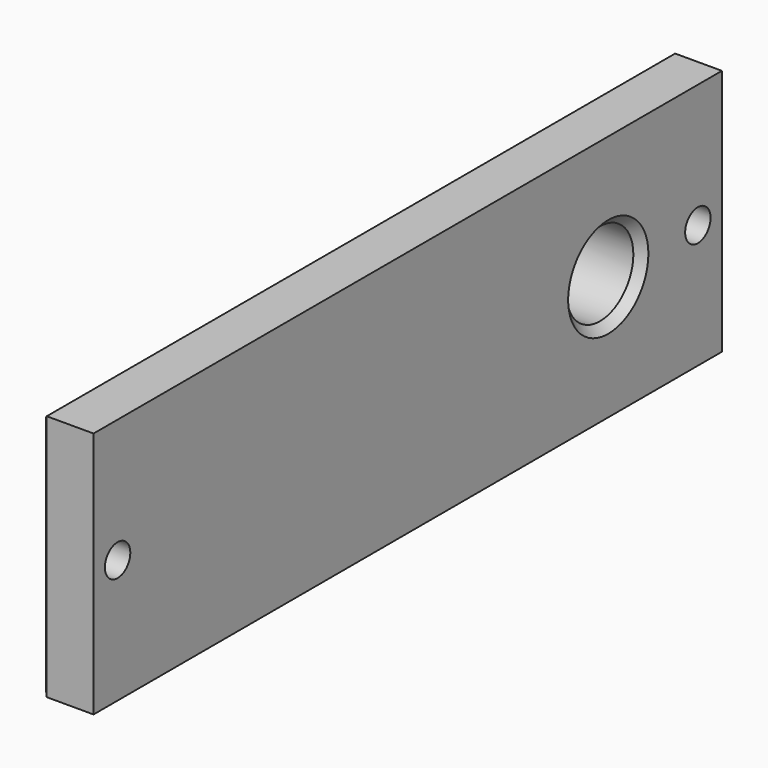
from build123d import *

# Parameters (mm, degrees)
SKETCH013_W     = 47
SKETCH013_H     = 14.8
PAD005_DEPTH    = 3
SKETCH014_R     = 0.95
POCKET003_DEPTH = 5
SKETCH015_R     = 0.95
POCKET004_DEPTH = 2
SKETCH016_W     = 40
SKETCH016_H     = 12.6
PAD006_DEPTH    = 1.5
SKETCH017_R     = 2.5
POCKET005_DEPTH = 10
CHAMFER014_SIZE = 0.5
CHAMFER015_SIZE = 0.5
CHAMFER016_SIZE = 0.2


with BuildPart() as part:
    # Sketch013 → Pad005 (new body)
    with BuildSketch(Plane.YZ):
        with Locations((0, 4.5)):
            Rectangle(SKETCH013_W, SKETCH013_H)
    extrude(amount=PAD005_DEPTH)

    # Sketch014 → Pocket003 (cut)
    with BuildSketch(Plane.YZ):
        with Locations((-21.7, 4.5)):
            Circle(SKETCH014_R)
        with Locations((21.7, 4.5)):
            Circle(SKETCH014_R)
    extrude(amount=POCKET003_DEPTH, mode=Mode.SUBTRACT)

    # Sketch015 → Pocket004 (cut)
    with BuildSketch(Plane.YZ.offset(3)):
        with Locations((-21.7, 4.5)):
            Circle(SKETCH015_R)
        with Locations((21.7, 4.5)):
            Circle(SKETCH015_R)
    extrude(amount=-POCKET004_DEPTH, mode=Mode.SUBTRACT)

    # Sketch016 → Pad006 (join)
    with BuildSketch(Plane.YZ):
        with Locations((0, 4.5)):
            Rectangle(SKETCH016_W, SKETCH016_H)
    extrude(amount=-PAD006_DEPTH)

    # Sketch017 → Pocket005 (cut)
    with BuildSketch(Plane(origin=(3, 15, 4.5), x_dir=(0, 1, 0), z_dir=(1, 0, 0))):
        Circle(SKETCH017_R)
    extrude(amount=-POCKET005_DEPTH, mode=Mode.SUBTRACT)

    # Chamfer014
    chamfer014_edges = [part.edges().sort_by_distance(p)[0] for p in [
        (-1.5, 12.5, 4.5),
        (3, 12.5, 4.5),
    ]]
    chamfer(chamfer014_edges, length=CHAMFER014_SIZE)

    # Chamfer015
    chamfer015_edges = [part.edges().sort_by_distance(p)[0] for p in [
        (-1.5, 20, 4.5),
        (-1.5, 0, -1.8),
        (-1.5, -20, 4.5),
        (-1.5, 0, 10.8),
    ]]
    chamfer(chamfer015_edges, length=CHAMFER015_SIZE)

    # Chamfer016
    chamfer016_edges = [part.edges().sort_by_distance(p)[0] for p in [
        (0, 23.5, 4.5),
        (0, 0, -2.9),
        (0, 0, 11.9),
        (0, -23.5, 4.5),
    ]]
    chamfer(chamfer016_edges, length=CHAMFER016_SIZE)


with BuildPart() as part_1:
    # Body003 placement: moved
    add(part.part.moved(Location((22, 0, 5))))


solid = part_1.part
